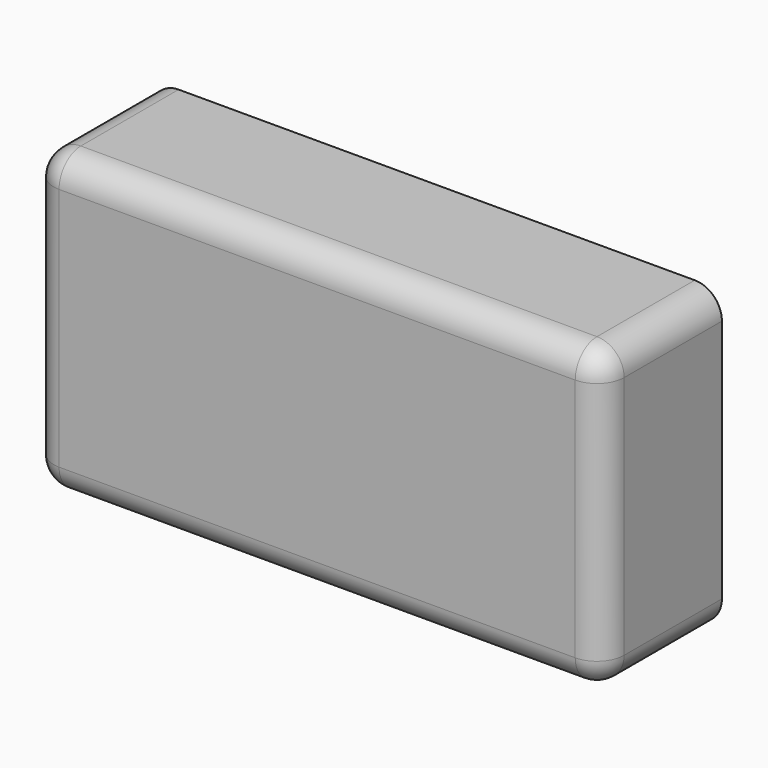
from build123d import *

# Parameters (mm, degrees)
F0_W     = 42
F0_H     = 22
F1_DEPTH = 11
F2_R     = 2
F3_T     = -1.25


with BuildPart() as f1:
    # F0 (on Front) → F1 (new body)
    with BuildSketch(Plane.XZ):
        with Locations((4.376042, -2.671225)):
            Rectangle(F0_W, F0_H)
    extrude(amount=F1_DEPTH)

    # F2
    f2_edges = [f1.edges().sort_by_distance(p)[0] for p in [
        (25.376042, -5.5, 8.328775),
        (25.376042, -5.5, -13.671225),
        (-16.623958, -5.5, 8.328775),
        (-16.623958, -5.5, -13.671225),
        (4.376042, -11, -13.671225),
        (25.376042, -11, -2.671225),
        (4.376042, -11, 8.328775),
        (-16.623958, -11, -2.671225),
    ]]
    fillet(f2_edges, radius=F2_R)

    # F3
    f3_openings = [f1.faces().sort_by_distance(p)[0] for p in [
        (4.376042, 0, -2.671225),
    ]]
    offset(amount=F3_T, openings=f3_openings)


solid = f1.part
